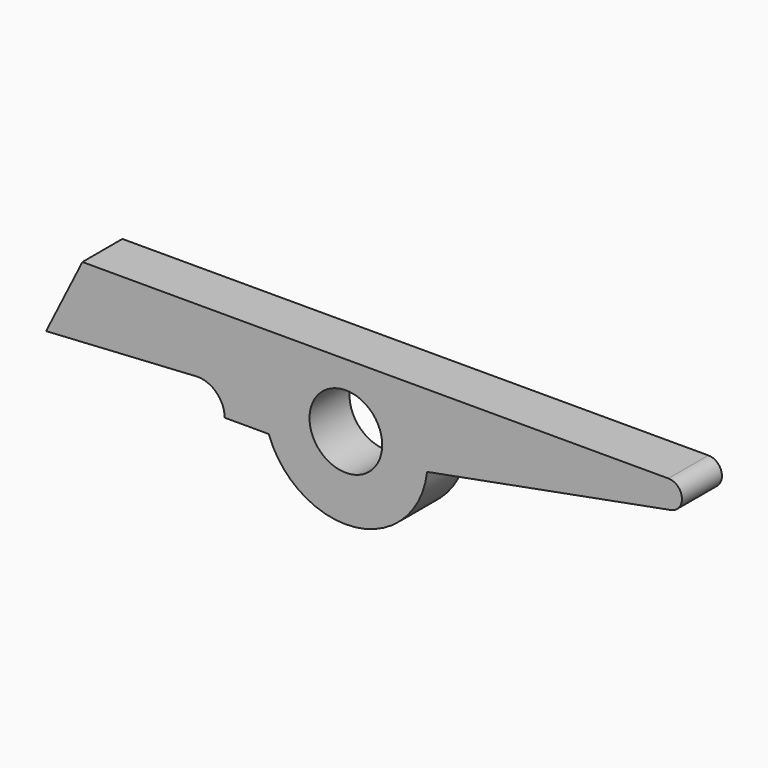
from build123d import *

# Parameters (mm, degrees)
F0_R     = 4
F1_DEPTH = 2.75


with BuildPart() as f1:
    # F0 (on Front) → F1 (new body, symmetric)
    with BuildSketch(Plane.XZ):
        with BuildLine():
            Line((-13.339746, -3), (-8.485281, -3))
            ThreePointArc((-8.485281, -3), (1.025996, -8.941327), (8.944272, -1))
            Line((8.944272, -1), (35.776149, 4.025639))
            ThreePointArc((35.776149, 4.025639), (36.993577, 5.638669), (35.5, 7))
            Line((35.5, 7), (-29, 7))
            Line((-29, 7), (-33, -1))
            Line((-33, -1), (-16.339746, 0))
            ThreePointArc((-16.339746, 0), (-14.218426, -0.87868), (-13.339746, -3))
        make_face()
        Circle(F0_R, mode=Mode.SUBTRACT)
    extrude(amount=F1_DEPTH, both=True)


solid = f1.part
